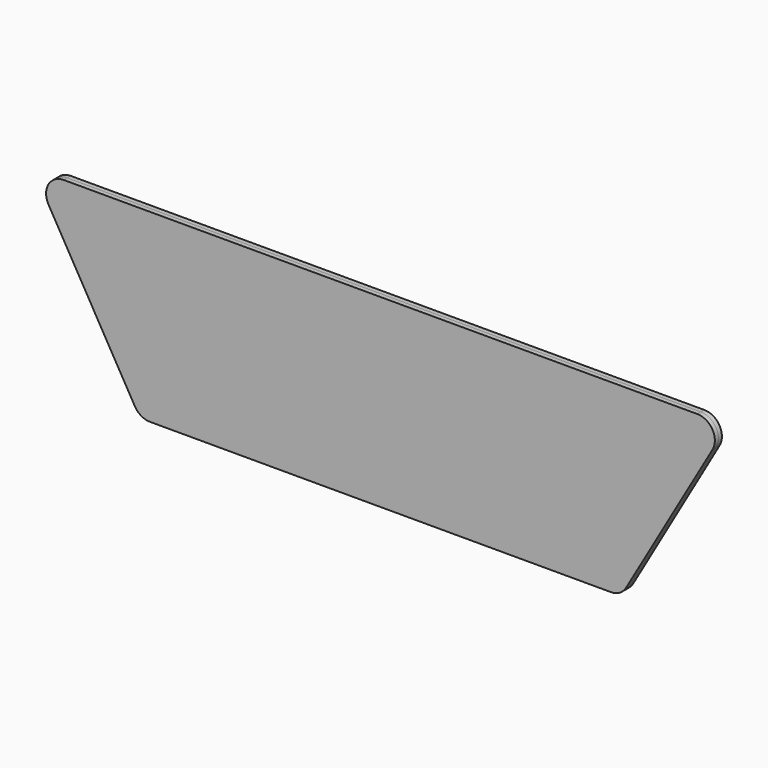
from build123d import *

# Parameters (mm, degrees)
F0_R     = 9.4
F1_DEPTH = 3
F3_DEPTH = 3


with BuildPart() as f1:
    # F0 (on Front) → F1 (new body)
    with BuildSketch(Plane.XZ):
        with BuildLine():
            Line((382.792305, -107.844587), (441.592305, -6))
            ThreePointArc((441.592305, -6), (441.592305, 6), (431.2, 12))
            Line((431.2, 12), (0, 12))
            ThreePointArc((0, 12), (-10.392305, 6), (-10.392305, -6))
            Line((-10.392305, -6), (48.407695, -107.844587))
            ThreePointArc((48.407695, -107.844587), (52.8, -112.236892), (58.8, -113.844587))
            Line((58.8, -113.844587), (372.4, -113.844587))
            ThreePointArc((372.4, -113.844587), (378.4, -112.236892), (382.792305, -107.844587))
        make_face()
        with Locations((58.8, -101.844587)):
            Circle(F0_R, mode=Mode.SUBTRACT)
        with Locations((78.4, -101.844587)):
            Circle(F0_R, mode=Mode.SUBTRACT)
        with Locations((98, -101.844587)):
            Circle(F0_R, mode=Mode.SUBTRACT)
        with Locations((49, -84.87049)):
            Circle(F0_R, mode=Mode.SUBTRACT)
        with Locations((68.6, -84.87049)):
            Circle(F0_R, mode=Mode.SUBTRACT)
        with Locations((88.2, -84.87049)):
            Circle(F0_R, mode=Mode.SUBTRACT)
        with Locations((117.6, -101.844587)):
            Circle(F0_R, mode=Mode.SUBTRACT)
        with Locations((137.2, -101.844587)):
            Circle(F0_R, mode=Mode.SUBTRACT)
        with Locations((156.8, -101.844587)):
            Circle(F0_R, mode=Mode.SUBTRACT)
        with Locations((176.4, -101.844587)):
            Circle(F0_R, mode=Mode.SUBTRACT)
        with Locations((196, -101.844587)):
            Circle(F0_R, mode=Mode.SUBTRACT)
        with Locations((215.6, -101.844587)):
            Circle(F0_R, mode=Mode.SUBTRACT)
        with Locations((107.8, -84.87049)):
            Circle(F0_R, mode=Mode.SUBTRACT)
        with Locations((127.4, -84.87049)):
            Circle(F0_R, mode=Mode.SUBTRACT)
        with Locations((147, -84.87049)):
            Circle(F0_R, mode=Mode.SUBTRACT)
        with Locations((166.6, -84.87049)):
            Circle(F0_R, mode=Mode.SUBTRACT)
        with Locations((186.2, -84.87049)):
            Circle(F0_R, mode=Mode.SUBTRACT)
        with Locations((205.8, -84.87049)):
            Circle(F0_R, mode=Mode.SUBTRACT)
        with Locations((39.2, -67.896392)):
            Circle(F0_R, mode=Mode.SUBTRACT)
        with Locations((58.8, -67.896392)):
            Circle(F0_R, mode=Mode.SUBTRACT)
        with Locations((78.4, -67.896392)):
            Circle(F0_R, mode=Mode.SUBTRACT)
        with Locations((98, -67.896392)):
            Circle(F0_R, mode=Mode.SUBTRACT)
        with Locations((29.4, -50.922294)):
            Circle(F0_R, mode=Mode.SUBTRACT)
        with Locations((49, -50.922294)):
            Circle(F0_R, mode=Mode.SUBTRACT)
        with Locations((68.6, -50.922294)):
            Circle(F0_R, mode=Mode.SUBTRACT)
        with Locations((88.2, -50.922294)):
            Circle(F0_R, mode=Mode.SUBTRACT)
        with Locations((117.6, -67.896392)):
            Circle(F0_R, mode=Mode.SUBTRACT)
        with Locations((137.2, -67.896392)):
            Circle(F0_R, mode=Mode.SUBTRACT)
        with Locations((156.8, -67.896392)):
            Circle(F0_R, mode=Mode.SUBTRACT)
        with Locations((176.4, -67.896392)):
            Circle(F0_R, mode=Mode.SUBTRACT)
        with Locations((196, -67.896392)):
            Circle(F0_R, mode=Mode.SUBTRACT)
        with Locations((215.6, -67.896392)):
            Circle(F0_R, mode=Mode.SUBTRACT)
        with Locations((107.8, -50.922294)):
            Circle(F0_R, mode=Mode.SUBTRACT)
        with Locations((127.4, -50.922294)):
            Circle(F0_R, mode=Mode.SUBTRACT)
        with Locations((147, -50.922294)):
            Circle(F0_R, mode=Mode.SUBTRACT)
        with Locations((166.6, -50.922294)):
            Circle(F0_R, mode=Mode.SUBTRACT)
        with Locations((186.2, -50.922294)):
            Circle(F0_R, mode=Mode.SUBTRACT)
        with Locations((205.8, -50.922294)):
            Circle(F0_R, mode=Mode.SUBTRACT)
        with Locations((235.2, -101.844587)):
            Circle(F0_R, mode=Mode.SUBTRACT)
        with Locations((254.8, -101.844587)):
            Circle(F0_R, mode=Mode.SUBTRACT)
        with Locations((274.4, -101.844587)):
            Circle(F0_R, mode=Mode.SUBTRACT)
        with Locations((294, -101.844587)):
            Circle(F0_R, mode=Mode.SUBTRACT)
        with Locations((313.6, -101.844587)):
            Circle(F0_R, mode=Mode.SUBTRACT)
        with Locations((225.4, -84.87049)):
            Circle(F0_R, mode=Mode.SUBTRACT)
        with Locations((245, -84.87049)):
            Circle(F0_R, mode=Mode.SUBTRACT)
        with Locations((264.6, -84.87049)):
            Circle(F0_R, mode=Mode.SUBTRACT)
        with Locations((284.2, -84.87049)):
            Circle(F0_R, mode=Mode.SUBTRACT)
        with Locations((303.8, -84.87049)):
            Circle(F0_R, mode=Mode.SUBTRACT)
        with Locations((323.4, -84.87049)):
            Circle(F0_R, mode=Mode.SUBTRACT)
        with Locations((333.2, -101.844587)):
            Circle(F0_R, mode=Mode.SUBTRACT)
        with Locations((352.8, -101.844587)):
            Circle(F0_R, mode=Mode.SUBTRACT)
        with Locations((372.4, -101.844587)):
            Circle(F0_R, mode=Mode.SUBTRACT)
        with Locations((343, -84.87049)):
            Circle(F0_R, mode=Mode.SUBTRACT)
        with Locations((362.6, -84.87049)):
            Circle(F0_R, mode=Mode.SUBTRACT)
        with Locations((382.2, -84.87049)):
            Circle(F0_R, mode=Mode.SUBTRACT)
        with Locations((235.2, -67.896392)):
            Circle(F0_R, mode=Mode.SUBTRACT)
        with Locations((254.8, -67.896392)):
            Circle(F0_R, mode=Mode.SUBTRACT)
        with Locations((274.4, -67.896392)):
            Circle(F0_R, mode=Mode.SUBTRACT)
        with Locations((294, -67.896392)):
            Circle(F0_R, mode=Mode.SUBTRACT)
        with Locations((313.6, -67.896392)):
            Circle(F0_R, mode=Mode.SUBTRACT)
        with Locations((225.4, -50.922294)):
            Circle(F0_R, mode=Mode.SUBTRACT)
        with Locations((245, -50.922294)):
            Circle(F0_R, mode=Mode.SUBTRACT)
        with Locations((264.6, -50.922294)):
            Circle(F0_R, mode=Mode.SUBTRACT)
        with Locations((284.2, -50.922294)):
            Circle(F0_R, mode=Mode.SUBTRACT)
        with Locations((303.8, -50.922294)):
            Circle(F0_R, mode=Mode.SUBTRACT)
        with Locations((323.4, -50.922294)):
            Circle(F0_R, mode=Mode.SUBTRACT)
        with Locations((333.2, -67.896392)):
            Circle(F0_R, mode=Mode.SUBTRACT)
        with Locations((352.8, -67.896392)):
            Circle(F0_R, mode=Mode.SUBTRACT)
        with Locations((372.4, -67.896392)):
            Circle(F0_R, mode=Mode.SUBTRACT)
        with Locations((392, -67.896392)):
            Circle(F0_R, mode=Mode.SUBTRACT)
        with Locations((343, -50.922294)):
            Circle(F0_R, mode=Mode.SUBTRACT)
        with Locations((362.6, -50.922294)):
            Circle(F0_R, mode=Mode.SUBTRACT)
        with Locations((382.2, -50.922294)):
            Circle(F0_R, mode=Mode.SUBTRACT)
        with Locations((401.8, -50.922294)):
            Circle(F0_R, mode=Mode.SUBTRACT)
        with Locations((19.6, -33.948196)):
            Circle(F0_R, mode=Mode.SUBTRACT)
        with Locations((39.2, -33.948196)):
            Circle(F0_R, mode=Mode.SUBTRACT)
        with Locations((58.8, -33.948196)):
            Circle(F0_R, mode=Mode.SUBTRACT)
        with Locations((78.4, -33.948196)):
            Circle(F0_R, mode=Mode.SUBTRACT)
        with Locations((98, -33.948196)):
            Circle(F0_R, mode=Mode.SUBTRACT)
        with Locations((117.6, -33.948196)):
            Circle(F0_R, mode=Mode.SUBTRACT)
        with Locations((137.2, -33.948196)):
            Circle(F0_R, mode=Mode.SUBTRACT)
        with Locations((156.8, -33.948196)):
            Circle(F0_R, mode=Mode.SUBTRACT)
        with Locations((176.4, -33.948196)):
            Circle(F0_R, mode=Mode.SUBTRACT)
        with Locations((196, -33.948196)):
            Circle(F0_R, mode=Mode.SUBTRACT)
        with Locations((215.6, -33.948196)):
            Circle(F0_R, mode=Mode.SUBTRACT)
        with Locations((9.8, -16.974098)):
            Circle(F0_R, mode=Mode.SUBTRACT)
        with Locations((29.4, -16.974098)):
            Circle(F0_R, mode=Mode.SUBTRACT)
        with Locations((49, -16.974098)):
            Circle(F0_R, mode=Mode.SUBTRACT)
        with Locations((68.6, -16.974098)):
            Circle(F0_R, mode=Mode.SUBTRACT)
        with Locations((88.2, -16.974098)):
            Circle(F0_R, mode=Mode.SUBTRACT)
        Circle(F0_R, mode=Mode.SUBTRACT)
        with Locations((19.6, 0)):
            Circle(F0_R, mode=Mode.SUBTRACT)
        with Locations((39.2, 0)):
            Circle(F0_R, mode=Mode.SUBTRACT)
        with Locations((58.8, 0)):
            Circle(F0_R, mode=Mode.SUBTRACT)
        with Locations((78.4, 0)):
            Circle(F0_R, mode=Mode.SUBTRACT)
        with Locations((98, 0)):
            Circle(F0_R, mode=Mode.SUBTRACT)
        with Locations((107.8, -16.974098)):
            Circle(F0_R, mode=Mode.SUBTRACT)
        with Locations((127.4, -16.974098)):
            Circle(F0_R, mode=Mode.SUBTRACT)
        with Locations((147, -16.974098)):
            Circle(F0_R, mode=Mode.SUBTRACT)
        with Locations((166.6, -16.974098)):
            Circle(F0_R, mode=Mode.SUBTRACT)
        with Locations((186.2, -16.974098)):
            Circle(F0_R, mode=Mode.SUBTRACT)
        with Locations((205.8, -16.974098)):
            Circle(F0_R, mode=Mode.SUBTRACT)
        with Locations((117.6, 0)):
            Circle(F0_R, mode=Mode.SUBTRACT)
        with Locations((137.2, 0)):
            Circle(F0_R, mode=Mode.SUBTRACT)
        with Locations((156.8, 0)):
            Circle(F0_R, mode=Mode.SUBTRACT)
        with Locations((176.4, 0)):
            Circle(F0_R, mode=Mode.SUBTRACT)
        with Locations((196, 0)):
            Circle(F0_R, mode=Mode.SUBTRACT)
        with Locations((215.6, 0)):
            Circle(F0_R, mode=Mode.SUBTRACT)
        with Locations((235.2, -33.948196)):
            Circle(F0_R, mode=Mode.SUBTRACT)
        with Locations((254.8, -33.948196)):
            Circle(F0_R, mode=Mode.SUBTRACT)
        with Locations((274.4, -33.948196)):
            Circle(F0_R, mode=Mode.SUBTRACT)
        with Locations((294, -33.948196)):
            Circle(F0_R, mode=Mode.SUBTRACT)
        with Locations((313.6, -33.948196)):
            Circle(F0_R, mode=Mode.SUBTRACT)
        with Locations((333.2, -33.948196)):
            Circle(F0_R, mode=Mode.SUBTRACT)
        with Locations((352.8, -33.948196)):
            Circle(F0_R, mode=Mode.SUBTRACT)
        with Locations((372.4, -33.948196)):
            Circle(F0_R, mode=Mode.SUBTRACT)
        with Locations((392, -33.948196)):
            Circle(F0_R, mode=Mode.SUBTRACT)
        with Locations((411.6, -33.948196)):
            Circle(F0_R, mode=Mode.SUBTRACT)
        with Locations((225.4, -16.974098)):
            Circle(F0_R, mode=Mode.SUBTRACT)
        with Locations((245, -16.974098)):
            Circle(F0_R, mode=Mode.SUBTRACT)
        with Locations((264.6, -16.974098)):
            Circle(F0_R, mode=Mode.SUBTRACT)
        with Locations((284.2, -16.974098)):
            Circle(F0_R, mode=Mode.SUBTRACT)
        with Locations((303.8, -16.974098)):
            Circle(F0_R, mode=Mode.SUBTRACT)
        with Locations((323.4, -16.974098)):
            Circle(F0_R, mode=Mode.SUBTRACT)
        with Locations((235.2, 0)):
            Circle(F0_R, mode=Mode.SUBTRACT)
        with Locations((254.8, 0)):
            Circle(F0_R, mode=Mode.SUBTRACT)
        with Locations((274.4, 0)):
            Circle(F0_R, mode=Mode.SUBTRACT)
        with Locations((294, 0)):
            Circle(F0_R, mode=Mode.SUBTRACT)
        with Locations((313.6, 0)):
            Circle(F0_R, mode=Mode.SUBTRACT)
        with Locations((343, -16.974098)):
            Circle(F0_R, mode=Mode.SUBTRACT)
        with Locations((362.6, -16.974098)):
            Circle(F0_R, mode=Mode.SUBTRACT)
        with Locations((382.2, -16.974098)):
            Circle(F0_R, mode=Mode.SUBTRACT)
        with Locations((401.8, -16.974098)):
            Circle(F0_R, mode=Mode.SUBTRACT)
        with Locations((421.4, -16.974098)):
            Circle(F0_R, mode=Mode.SUBTRACT)
        with Locations((333.2, 0)):
            Circle(F0_R, mode=Mode.SUBTRACT)
        with Locations((352.8, 0)):
            Circle(F0_R, mode=Mode.SUBTRACT)
        with Locations((372.4, 0)):
            Circle(F0_R, mode=Mode.SUBTRACT)
        with Locations((392, 0)):
            Circle(F0_R, mode=Mode.SUBTRACT)
        with Locations((411.6, 0)):
            Circle(F0_R, mode=Mode.SUBTRACT)
        with Locations((431.2, 0)):
            Circle(F0_R, mode=Mode.SUBTRACT)
    extrude(amount=F1_DEPTH)


with BuildPart() as f3:
    # F2 (on face) → F3 (new body)
    with BuildSketch(Plane.XZ.offset(3)):
        with BuildLine():
            Line((431.2, 12), (0, 12))
            ThreePointArc((0, 12), (-10.392305, 6), (-10.392305, -6))
            Line((-10.392305, -6), (48.407695, -107.844587))
            ThreePointArc((48.407695, -107.844587), (52.8, -112.236892), (58.8, -113.844587))
            Line((58.8, -113.844587), (372.4, -113.844587))
            ThreePointArc((372.4, -113.844587), (378.4, -112.236892), (382.792305, -107.844587))
            Line((382.792305, -107.844587), (441.592305, -6))
            ThreePointArc((441.592305, -6), (441.592305, 6), (431.2, 12))
        make_face()
    extrude(amount=F3_DEPTH)


with BuildPart() as f4_1:
    # F4: copy of F1
    add(f1.part)


solid = Compound([f1.part, f3.part, f4_1.part])
